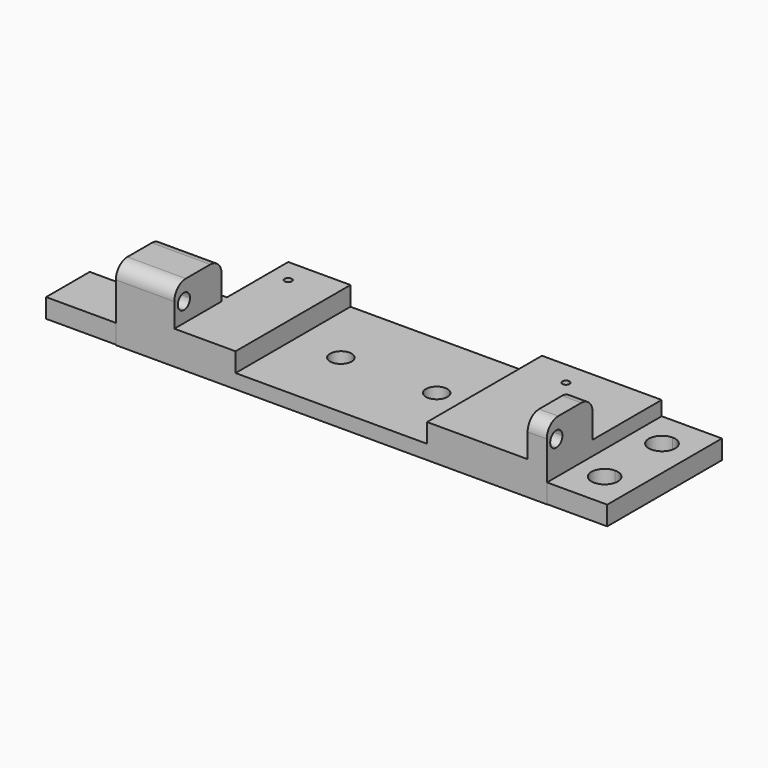
from build123d import *

# Parameters (mm, degrees)
F1_DEPTH  = 7
F2_W      = 4
F2_H      = 12
F3_DEPTH  = 8
F4_W      = 12.2146774828
F4_H      = 1.6385169476
F5_DEPTH  = 8
F7_DEPTH  = 80
F8_R      = 2.25
F9_DEPTH  = 25
F10_W     = 40
F10_H     = 30
F10_R     = 2.25
F11_DEPTH = 4
F12_R     = 3
F14_DEPTH = 4
F15_W     = 15
F15_H     = 11.3999997266
F16_DEPTH = 4


with BuildPart() as f1:
    # F0 (on Top) → F1 (new body)
    with BuildSketch(Plane.XY):
        Polygon((-29, 15), (-33, 15), (-33, -1), (-45, -1), (-45, -15), (45, -15), (45, 15), (29, 15), align=None)
        with BuildLine():
            ThreePointArc((-28.25, 10), (-29.5303300859, 9.4696699141), (-29, 10.75))
            ThreePointArc((-29, 10.75), (-28.4696699141, 10.5303300859), (-28.25, 10))
        make_face(mode=Mode.SUBTRACT)
        with BuildLine():
            ThreePointArc((29.75, 10), (28.4696699141, 9.4696699141), (29, 10.75))
            ThreePointArc((29, 10.75), (29.5303300859, 10.5303300859), (29.75, 10))
        make_face(mode=Mode.SUBTRACT)
    extrude(amount=F1_DEPTH)

    # F2 (on face) → F3 (join)
    with BuildSketch(Plane.XY.offset(7)):
        Polygon((-33, -1), (-45, -1), (-45, -15), (-32.7853225172, -15), (-32.7853225172, -1), align=None)
        with Locations((43, -9)):
            Rectangle(F2_W, F2_H)
    extrude(amount=F3_DEPTH)

    # F4 (on face) → F5 (cut)
    with BuildSketch(Plane.XY.offset(15)):
        with Locations((-38.8926612586, -1.8192584738)):
            Rectangle(F4_W, F4_H)
    extrude(amount=-F5_DEPTH, mode=Mode.SUBTRACT)

    # F6 (on face) → F7 (cut)
    with BuildSketch(Plane.YZ.offset(45)):
        with BuildLine():
            ThreePointArc((-12.5, 9.4), (-11.3686291501, 9.8686291501), (-10.9, 11))
            ThreePointArc((-10.9, 11), (-13.6313708499, 12.1313708499), (-12.5, 9.4))
        make_face()
    extrude(amount=-F7_DEPTH, mode=Mode.SUBTRACT)

    # F8 (on face) → F9 (cut)
    with BuildSketch(Plane.XY.offset(7)):
        with Locations((-10, 0)):
            Circle(F8_R)
        with BuildLine():
            ThreePointArc((12.25, 0), (10, 2.25), (7.75, 0))
            ThreePointArc((7.75, 0), (10, -2.25), (12.25, 0))
        make_face()
    extrude(amount=-F9_DEPTH, mode=Mode.SUBTRACT)

    # F10 (on face) → F11 (cut)
    with BuildSketch(Plane.XY.offset(7)):
        Rectangle(F10_W, F10_H)
        with Locations((-10, 0)):
            Circle(F10_R, mode=Mode.SUBTRACT)
        with Locations((10, 0)):
            Circle(F10_R, mode=Mode.SUBTRACT)
    extrude(amount=-F11_DEPTH, mode=Mode.SUBTRACT)

    # F12
    f12_edges = [f1.edges().sort_by_distance(p)[0] for p in [
        (-38.892661, -15, 15),
        (43, -15, 15),
        (-38.892661, -2.638517, 15),
        (43, -3, 15),
    ]]
    fillet(f12_edges, radius=F12_R)

    # F13 (on Top) → F14 (join)
    with BuildSketch(Plane.XY):
        with BuildLine():
            Line((57.5766451657, 15.0159569457), (51.0659832507, 15.0159569457))
            Line((51.0659832507, 15.0159569457), (51.0659832507, 10.2579784729))
            ThreePointArc((51.0659832507, 10.2579784729), (53.010526899, 9.4525221211), (53.8159832507, 7.5079784729))
            ThreePointArc((53.8159832507, 7.5079784729), (53.010526899, 5.5634348246), (51.0659832507, 4.7579784729))
            Line((51.0659832507, 4.7579784729), (51.0659832507, 0))
            Line((51.0659832507, 0), (51.0659832507, -4.7165443972))
            ThreePointArc((51.0659832507, -4.7165443972), (53.010526899, -5.5220007489), (53.8159832507, -7.4665443972))
            ThreePointArc((53.8159832507, -7.4665443972), (53.010526899, -9.4110880454), (51.0659832507, -10.2165443972))
            Line((51.0659832507, -10.2165443972), (51.0659832507, -14.9330887944))
            Line((51.0659832507, -14.9330887944), (57.5766451657, -14.9330887944))
            Line((57.5766451657, -14.9330887944), (57.5766451657, 15.0159569457))
        make_face()
        with BuildLine():
            Line((51.0659832507, 15.0159569457), (44.5553213358, 15.0159569457))
            Line((44.5553213358, 15.0159569457), (44.5553213358, -14.9330887944))
            Line((44.5553213358, -14.9330887944), (51.0659832507, -14.9330887944))
            Line((51.0659832507, -14.9330887944), (51.0659832507, -10.2165443972))
            ThreePointArc((51.0659832507, -10.2165443972), (48.3159832507, -7.4665443972), (51.0659832507, -4.7165443972))
            Line((51.0659832507, -4.7165443972), (51.0659832507, 0))
            Line((51.0659832507, 0), (51.0659832507, 4.7579784729))
            ThreePointArc((51.0659832507, 4.7579784729), (48.3159832507, 7.5079784729), (51.0659832507, 10.2579784729))
            Line((51.0659832507, 10.2579784729), (51.0659832507, 15.0159569457))
        make_face()
    extrude(amount=F14_DEPTH)

    # F15 (on Top) → F16 (join)
    with BuildSketch(Plane.XY):
        with Locations((-52.2000010312, -9.1500000563)):
            Rectangle(F15_W, F15_H)
    extrude(amount=F16_DEPTH)


solid = f1.part
